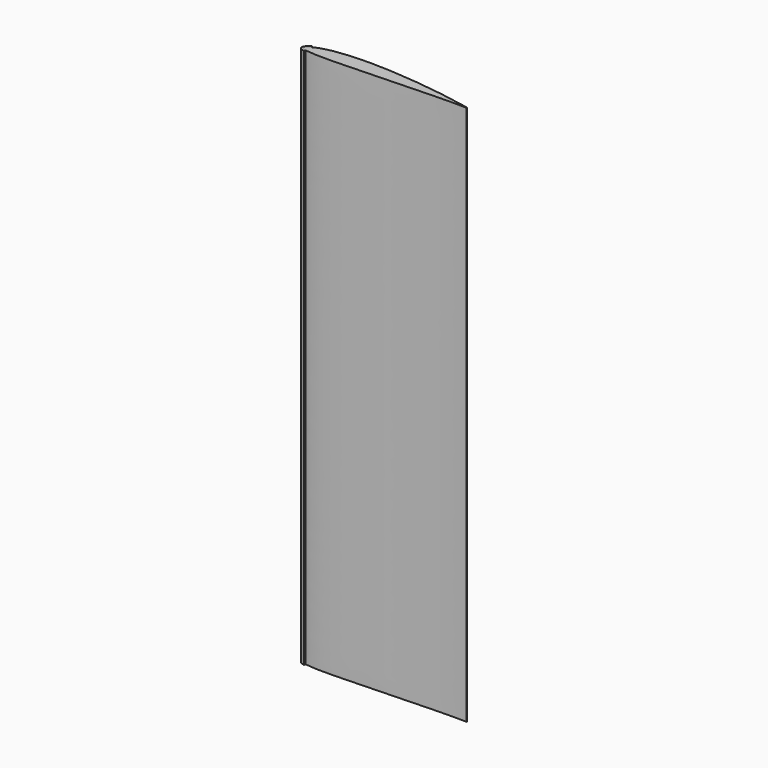
from build123d import *

# Parameters (mm, degrees)
PAD001_DEPTH    = 960
SKETCH_W        = 206.570007
SKETCH_H        = 1211.883179
POCKET_DEPTH    = 100
THICKNESS_T     = 3
SKETCH002_W     = 324.751648
SKETCH002_H     = 63.586422
POCKET001_DEPTH = 1000
PAD002_DEPTH    = 960
SKETCH003_W     = 206.570007
SKETCH003_H     = 1211.883179
POCKET002_DEPTH = 50


with BuildPart() as leading_edge_left:
    # Sketch001 (on DatumPlane) → Pad001 (new body)
    with BuildSketch(Plane.XY.offset(200)):
        with BuildLine():
            add(Edge.make_bspline(
                [(300, 0), (299.67182, 0.040622), (298.376919, 0.206601), (295.51882, 0.618308), (290.887912, 1.391937), (284.631564, 2.512317), (276.914942, 3.965447), (267.894714, 5.675234), (257.7102, 7.547415), (246.490589, 9.500451), (234.341389, 11.437075), (221.37178, 13.297954), (207.709006, 15.08448), (193.498261, 16.760047), (178.896842, 18.29505), (164.063523, 19.653493), (149.152419, 20.790086), (134.319847, 21.673656), (119.712673, 22.277116), (105.472408, 22.56421), (91.731211, 22.525937), (78.61383, 22.146763), (66.235843, 21.426835), (54.70332, 20.365917), (44.112951, 18.983093), (34.547181, 17.294323), (26.072205, 15.323716), (18.741492, 13.105189), (12.581945, 10.695254), (7.642255, 8.162223), (3.856024, 5.623878), (1.415645, 3.128736), (-0.167967, 0.909352), (0.211727, -1.59613), (2.927244, -2.773676), (6.536219, -3.893629), (11.902354, -4.749867), (18.698233, -5.42708), (26.999066, -5.863434), (36.690786, -6.093429), (47.699639, -6.122456), (59.912068, -5.976931), (73.202283, -5.680974), (87.423069, -5.265113), (102.414766, -4.75772), (118.002624, -4.188625), (134.005276, -3.569038), (150.236098, -2.928461), (166.506809, -2.280207), (182.629637, -1.648412), (198.415277, -1.04715), (213.679151, -0.502939), (228.233452, -0.036742), (241.894096, 0.319965), (254.467433, 0.556312), (265.802774, 0.675988), (275.649958, 0.677744), (284.110588, 0.569049), (290.361638, 0.454383), (296.027405, 0.19135), (297.42664, 0.195287), (300.327179, -0.040498), (300, 0)],
                knots=[0, 0, 0, 0, 0.992034, 3.916487, 8.662044, 15.076469, 22.983923, 32.218625, 42.619035, 54.049121, 66.382809, 79.525248, 93.3551, 107.719038, 122.451642, 137.399547, 152.40369, 167.312802, 181.973962, 196.259745, 210.038829, 223.193611, 235.623361, 247.22944, 257.929949, 267.655004, 276.359416, 284.016531, 290.616893, 296.163987, 300.669927, 304.16612, 306.714549, 308.477467, 310.914599, 314.789559, 320.158838, 327.017478, 335.340816, 345.064004, 356.107096, 368.36284, 381.703949, 395.986863, 411.043301, 426.704677, 442.78156, 459.087203, 475.435051, 491.632425, 507.492778, 522.826395, 537.452694, 551.179259, 563.817426, 575.193997, 585.138999, 593.503585, 600.159484, 605.001943, 607.948763, 608.937772, 608.937772, 608.937772, 608.937772], degree=3))
        make_face()
    extrude(amount=PAD001_DEPTH)

    # Sketch → Pocket (cut)
    with BuildSketch(Plane.XZ):
        with Locations((393.285004, 709.079162)):
            Rectangle(SKETCH_W, SKETCH_H)
    extrude(amount=-POCKET_DEPTH, mode=Mode.SUBTRACT)

    # Thickness
    thickness_openings = [leading_edge_left.faces().sort_by_distance(p)[0] for p in [
        (121.033741, 7.412281, 1160),
        (121.033741, 7.412281, 200),
    ]]
    offset(amount=THICKNESS_T, openings=thickness_openings)

    # Sketch002 (on Face3 of Thickness) → Pocket001 (cut)
    with BuildSketch(Plane.XY.offset(1160)):
        with Locations((169.375824, 1.715885)):
            Rectangle(SKETCH002_W, SKETCH002_H)
    extrude(amount=-POCKET001_DEPTH, mode=Mode.SUBTRACT)


with BuildPart() as wing_spars_left_inner:
    # Sketch004 (on DatumPlane) → Pad002 (new body)
    with BuildSketch(Plane.XY.offset(200)):
        with BuildLine():
            add(Edge.make_bspline(
                [(300, 0), (299.67182, 0.040622), (298.376919, 0.206601), (295.51882, 0.618308), (290.887912, 1.391937), (284.631564, 2.512317), (276.914942, 3.965447), (267.894714, 5.675234), (257.7102, 7.547415), (246.490589, 9.500451), (234.341389, 11.437075), (221.37178, 13.297954), (207.709006, 15.08448), (193.498261, 16.760047), (178.896842, 18.29505), (164.063523, 19.653493), (149.152419, 20.790086), (134.319847, 21.673656), (119.712673, 22.277116), (105.472408, 22.56421), (91.731211, 22.525937), (78.61383, 22.146763), (66.235843, 21.426835), (54.70332, 20.365917), (44.112951, 18.983093), (34.547181, 17.294323), (26.072205, 15.323716), (18.741492, 13.105189), (12.581945, 10.695254), (7.642255, 8.162223), (3.856024, 5.623878), (1.415645, 3.128736), (-0.167967, 0.909352), (0.211727, -1.59613), (2.927244, -2.773676), (6.536219, -3.893629), (11.902354, -4.749867), (18.698233, -5.42708), (26.999066, -5.863434), (36.690786, -6.093429), (47.699639, -6.122456), (59.912068, -5.976931), (73.202283, -5.680974), (87.423069, -5.265113), (102.414766, -4.75772), (118.002624, -4.188625), (134.005276, -3.569038), (150.236098, -2.928461), (166.506809, -2.280207), (182.629637, -1.648412), (198.415277, -1.04715), (213.679151, -0.502939), (228.233452, -0.036742), (241.894096, 0.319965), (254.467433, 0.556312), (265.802774, 0.675988), (275.649958, 0.677744), (284.110588, 0.569049), (290.361638, 0.454383), (296.027405, 0.19135), (297.42664, 0.195287), (300.327179, -0.040498), (300, 0)],
                knots=[0, 0, 0, 0, 0.992034, 3.916487, 8.662044, 15.076469, 22.983923, 32.218625, 42.619035, 54.049121, 66.382809, 79.525248, 93.3551, 107.719038, 122.451642, 137.399547, 152.40369, 167.312802, 181.973962, 196.259745, 210.038829, 223.193611, 235.623361, 247.22944, 257.929949, 267.655004, 276.359416, 284.016531, 290.616893, 296.163987, 300.669927, 304.16612, 306.714549, 308.477467, 310.914599, 314.789559, 320.158838, 327.017478, 335.340816, 345.064004, 356.107096, 368.36284, 381.703949, 395.986863, 411.043301, 426.704677, 442.78156, 459.087203, 475.435051, 491.632425, 507.492778, 522.826395, 537.452694, 551.179259, 563.817426, 575.193997, 585.138999, 593.503585, 600.159484, 605.001943, 607.948763, 608.937772, 608.937772, 608.937772, 608.937772], degree=3))
        make_face()
    extrude(amount=PAD002_DEPTH)

    # Sketch003 → Pocket002 (cut, symmetric)
    with BuildSketch(Plane.XZ):
        with Locations((393.285004, 709.079162)):
            Rectangle(SKETCH003_W, SKETCH003_H)
    extrude(amount=POCKET002_DEPTH, both=True, mode=Mode.SUBTRACT)


solid = Compound([leading_edge_left.part, wing_spars_left_inner.part])
